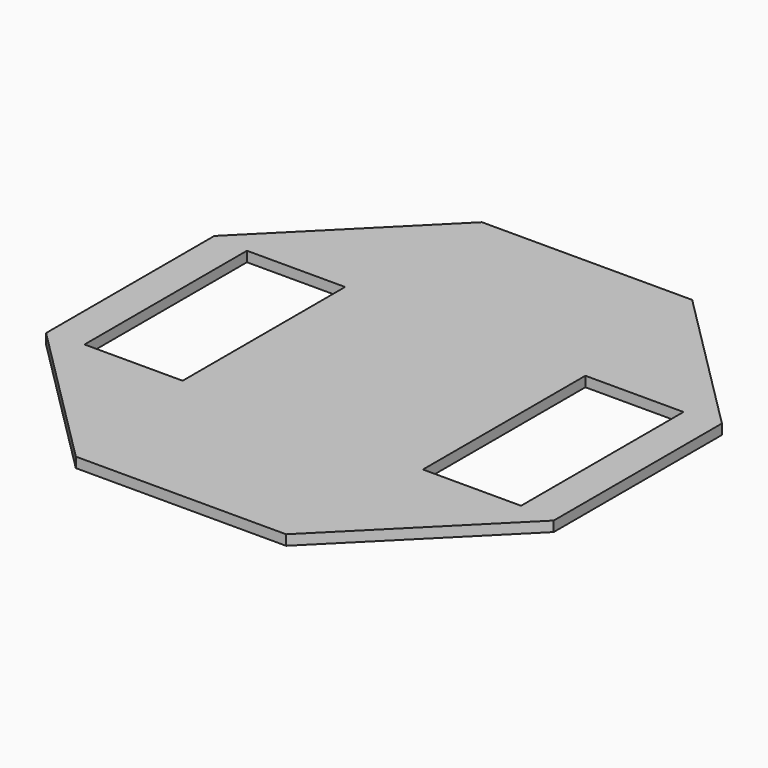
from build123d import *

# Parameters (mm, degrees)
F1_DEPTH = 3.81
F2_W     = 36.83
F2_H     = 76.2
F3_DEPTH = 3.81


with BuildPart() as f1:
    # F0 (on Top) → F1 (new body)
    with BuildSketch(Plane.XY):
        Polygon((39.453842, -95.25), (95.25, -39.453842), (95.25, 39.453842), (39.453842, 95.25), (-39.453842, 95.25), (-95.25, 39.453842), (-95.25, -39.453842), (-39.453842, -95.25), align=None)
    extrude(amount=F1_DEPTH)

    # F2 (on face) → F3 (cut)
    with BuildSketch(Plane.XY.offset(3.81)):
        with Locations((-63.5, 0)):
            Rectangle(F2_W, F2_H)
    extrude(amount=-F3_DEPTH, mode=Mode.SUBTRACT)

    # F4: F1 across plane


with BuildPart() as f1_1:
    add(f1.part)
    add(f1.part.mirror(Plane.YZ), mode=Mode.INTERSECT)


solid = f1_1.part
